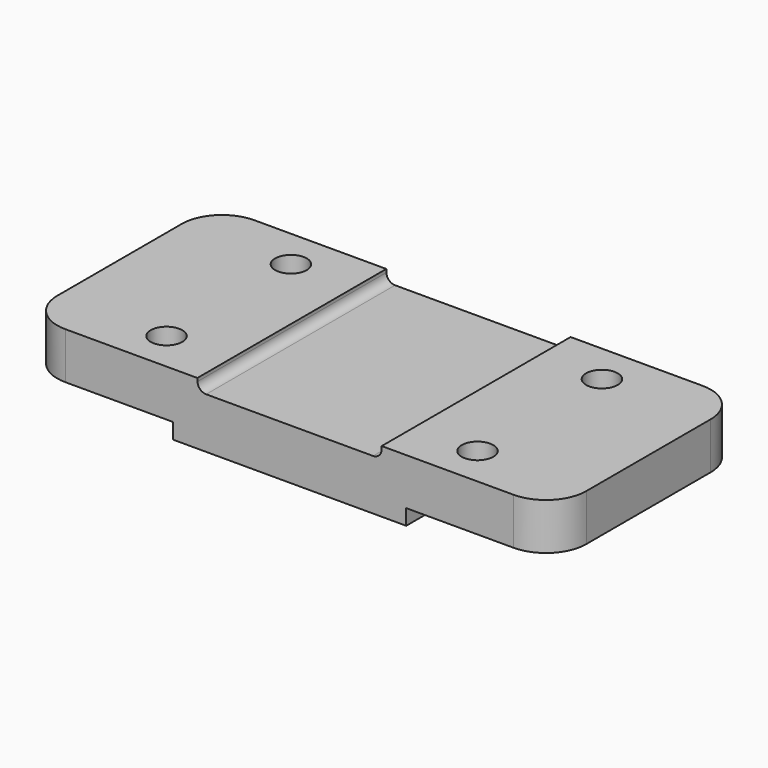
from build123d import *

# Parameters (mm, degrees)
F1_DEPTH = 82
F2_R     = 14
F3_R     = 5.5
F4_DEPTH = 21.610834


with BuildPart() as f1:
    # F0 (on Front) → F1 (new body)
    with BuildSketch(Plane.XZ):
        with BuildLine():
            Line((0, 21.609834), (0, 5.402458))
            Line((0, 5.402458), (51.323355, 5.402458))
            Line((51.323355, 5.402458), (51.323355, 0))
            Line((51.323355, 0), (132.360232, 0))
            Line((132.360232, 0), (132.360232, 5.402458))
            Line((132.360232, 5.402458), (183.683587, 5.402458))
            Line((183.683587, 5.402458), (183.683587, 21.609834))
            Line((183.683587, 21.609834), (123.841794, 21.609834))
            Line((123.841794, 21.609834), (123.841794, 20.609834))
            ThreePointArc((123.841794, 20.609834), (122.963114, 18.488513), (120.841794, 17.609834))
            Line((120.841794, 17.609834), (62.875107, 17.609834))
            ThreePointArc((62.875107, 17.609834), (60.787768, 18.455068), (59.876622, 20.514491))
            Line((59.876622, 20.514491), (59.841794, 21.609834))
            Line((59.841794, 21.609834), (0, 21.609834))
        make_face()
    extrude(amount=F1_DEPTH)

    # F2
    f2_edges = [f1.edges().sort_by_distance(p)[0] for p in [
        (0, -82, 13.506146),
        (183.683587, -82, 13.506146),
        (183.683587, 0, 13.506146),
        (0, 0, 13.506146),
    ]]
    fillet(f2_edges, radius=F2_R)

    # F3 (on face) → F4 (cut, through all)
    with BuildSketch(Plane.XY.offset(21.609834)):
        with Locations((37.919445, -14)):
            Circle(F3_R)
        with Locations((145.919445, -14)):
            Circle(F3_R)
        with Locations((145.919445, -68)):
            Circle(F3_R)
        with Locations((37.919445, -68)):
            Circle(F3_R)
    extrude(amount=-F4_DEPTH, mode=Mode.SUBTRACT)


solid = f1.part
